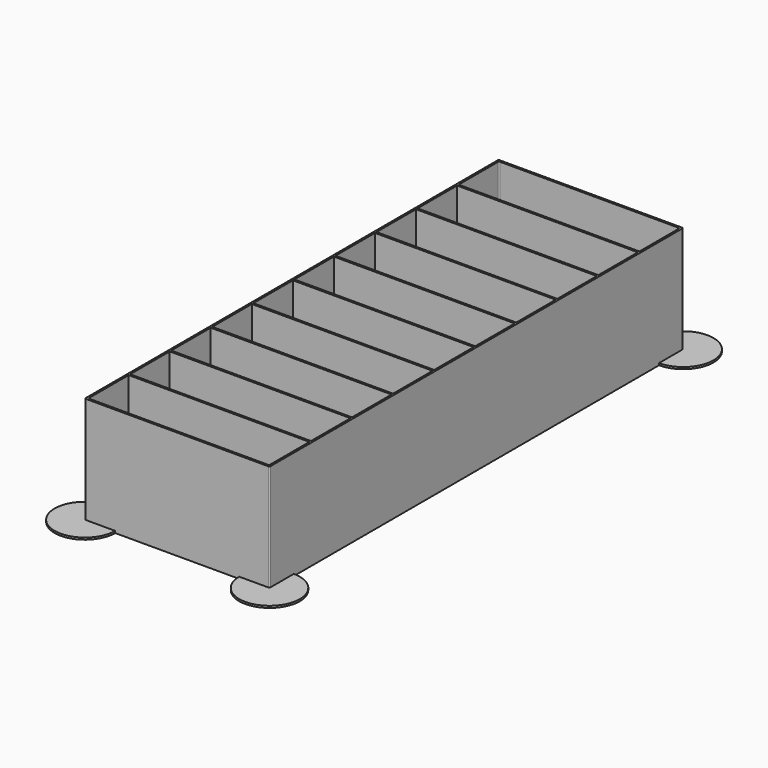
from build123d import *

# Parameters (mm, degrees)
F1_DEPTH = 0.8
F2_W     = 76.2
F2_H     = 213.36
F2_W_2   = 74.6
F2_H_2   = 20.776
F2_H_3   = 20.376
F3_DEPTH = 44
F4_R     = 0.4
F5_DEPTH = 0.8


with BuildPart() as f1:
    # F0 (on Top) → F1 (new body)
    with BuildSketch(Plane.XY):
        with BuildLine():
            Line((0, 12.5), (0, 0))
            Line((0, 0), (12.5, 0))
            ThreePointArc((12.5, 0), (8.8388347648, 8.8388347648), (0, 12.5))
        make_face()
        with BuildLine():
            ThreePointArc((0, 12.5), (8.8388347648, 8.8388347648), (12.5, 0))
            Line((12.5, 0), (63.7, 0))
            ThreePointArc((63.7, 0), (67.3611652352, 8.8388347648), (76.2, 12.5))
            Line((76.2, 12.5), (76.2, 200.86))
            ThreePointArc((76.2, 200.86), (67.3611652352, 204.5211652352), (63.7, 213.36))
            Line((63.7, 213.36), (12.5, 213.36))
            ThreePointArc((12.5, 213.36), (8.8388347648, 204.5211652352), (0, 200.86))
            Line((0, 200.86), (0, 12.5))
        make_face()
        with BuildLine():
            ThreePointArc((76.2, 12.5), (67.3611652352, 8.8388347648), (63.7, 0))
            Line((63.7, 0), (76.2, 0))
            Line((76.2, 0), (76.2, 12.5))
        make_face()
        with BuildLine():
            ThreePointArc((0, 12.5), (8.8388347648, 8.8388347648), (12.5, 0))
            Line((12.5, 0), (63.7, 0))
            ThreePointArc((63.7, 0), (67.3611652352, 8.8388347648), (76.2, 12.5))
            Line((76.2, 12.5), (76.2, 200.86))
            ThreePointArc((76.2, 200.86), (67.3611652352, 204.5211652352), (63.7, 213.36))
            Line((63.7, 213.36), (12.5, 213.36))
            ThreePointArc((12.5, 213.36), (8.8388347648, 204.5211652352), (0, 200.86))
            Line((0, 200.86), (0, 12.5))
        make_face()
        with BuildLine():
            ThreePointArc((63.7, 213.36), (67.3611652352, 204.5211652352), (76.2, 200.86))
            Line((76.2, 200.86), (76.2, 213.36))
            Line((76.2, 213.36), (63.7, 213.36))
        make_face()
        with BuildLine():
            Line((0, 213.36), (0, 200.86))
            ThreePointArc((0, 200.86), (8.8388347648, 204.5211652352), (12.5, 213.36))
            Line((12.5, 213.36), (0, 213.36))
        make_face()
    extrude(amount=F1_DEPTH)

    # F2 (on face) → F3 (join)
    with BuildSketch(Plane.XY.offset(0.8)):
        with Locations((38.1, 106.68)):
            Rectangle(F2_W, F2_H)
        with Locations((38.1, 11.188)):
            Rectangle(F2_W_2, F2_H_2, mode=Mode.SUBTRACT)
        with Locations((38.1, 32.564)):
            Rectangle(F2_W_2, F2_H_3, mode=Mode.SUBTRACT)
        with Locations((38.1, 53.74)):
            Rectangle(F2_W_2, F2_H_3, mode=Mode.SUBTRACT)
        with Locations((38.1, 74.916)):
            Rectangle(F2_W_2, F2_H_3, mode=Mode.SUBTRACT)
        with Locations((38.1, 96.092)):
            Rectangle(F2_W_2, F2_H_3, mode=Mode.SUBTRACT)
        with Locations((38.1, 117.268)):
            Rectangle(F2_W_2, F2_H_3, mode=Mode.SUBTRACT)
        with Locations((38.1, 138.444)):
            Rectangle(F2_W_2, F2_H_3, mode=Mode.SUBTRACT)
        with Locations((38.1, 159.62)):
            Rectangle(F2_W_2, F2_H_3, mode=Mode.SUBTRACT)
        with Locations((38.1, 180.796)):
            Rectangle(F2_W_2, F2_H_3, mode=Mode.SUBTRACT)
        with Locations((38.1, 202.172)):
            Rectangle(F2_W_2, F2_H_2, mode=Mode.SUBTRACT)
    extrude(amount=F3_DEPTH)

    # F4
    f4_edges = [f1.edges().sort_by_distance(p)[0] for p in [
        (75.4, 0.8, 22.8),
        (76.2, 0, 22.4),
        (0.8, 0.8, 22.8),
        (0, 0, 22.4),
        (0, 213.36, 22.4),
        (0.8, 212.56, 22.8),
        (76.2, 213.36, 22.4),
        (75.4, 212.56, 22.8),
    ]]
    fillet(f4_edges, radius=F4_R)

    # F0 (on Top) → F5 (join, through all)
    with BuildSketch(Plane.XY):
        with BuildLine():
            Line((76.2, 0), (63.7, 0))
            ThreePointArc((63.7, 0), (76.2, -12.5), (88.7, 0))
            ThreePointArc((88.7, 0), (85.0388347648, 8.8388347648), (76.2, 12.5))
            Line((76.2, 12.5), (76.2, 0))
        make_face()
        with BuildLine():
            Line((12.5, 0), (0, 0))
            Line((0, 0), (0, 12.5))
            ThreePointArc((0, 12.5), (-8.8388347648, -8.8388347648), (12.5, 0))
        make_face()
        with BuildLine():
            ThreePointArc((12.5, 213.36), (-8.8388347648, 222.1988347648), (0, 200.86))
            Line((0, 200.86), (0, 213.36))
            Line((0, 213.36), (12.5, 213.36))
        make_face()
        with BuildLine():
            Line((76.2, 213.36), (76.2, 200.86))
            ThreePointArc((76.2, 200.86), (85.0388347648, 204.5211652352), (88.7, 213.36))
            ThreePointArc((88.7, 213.36), (76.2, 225.86), (63.7, 213.36))
            Line((63.7, 213.36), (76.2, 213.36))
        make_face()
        with BuildLine():
            ThreePointArc((76.2, 12.5), (67.3611652352, 8.8388347648), (63.7, 0))
            Line((63.7, 0), (76.2, 0))
            Line((76.2, 0), (76.2, 12.5))
        make_face()
        with BuildLine():
            Line((0, 12.5), (0, 0))
            Line((0, 0), (12.5, 0))
            ThreePointArc((12.5, 0), (8.8388347648, 8.8388347648), (0, 12.5))
        make_face()
        with BuildLine():
            Line((0, 213.36), (0, 200.86))
            ThreePointArc((0, 200.86), (8.8388347648, 204.5211652352), (12.5, 213.36))
            Line((12.5, 213.36), (0, 213.36))
        make_face()
        with BuildLine():
            ThreePointArc((63.7, 213.36), (67.3611652352, 204.5211652352), (76.2, 200.86))
            Line((76.2, 200.86), (76.2, 213.36))
            Line((76.2, 213.36), (63.7, 213.36))
        make_face()
    extrude(amount=F5_DEPTH)


solid = f1.part
